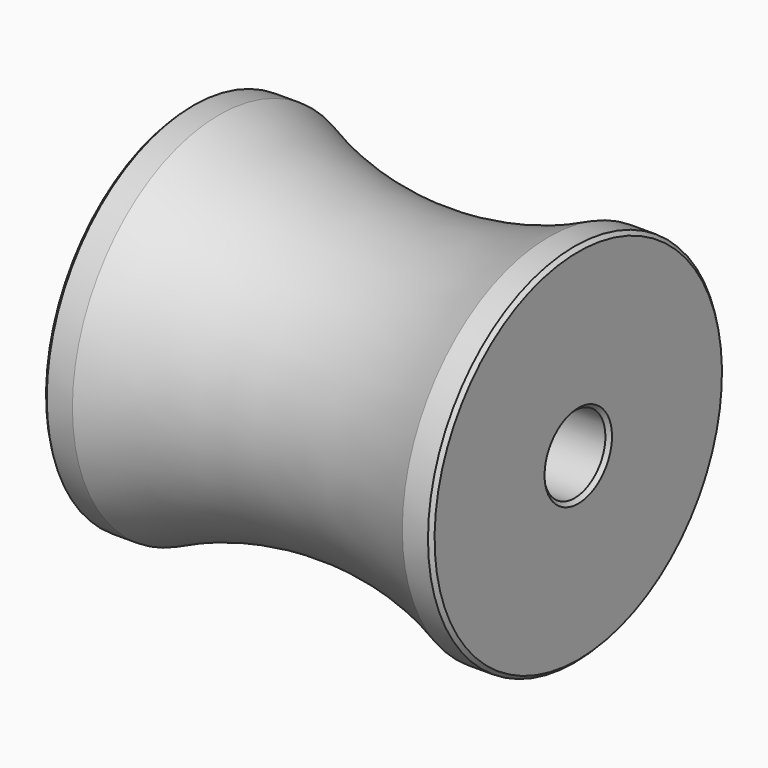
from build123d import *

# Parameters (mm, degrees)
F3_SIZE  = 0.5
F4_SIZE2 = 0.5
F4_SIZE  = 0.5


with BuildPart() as f2:
    # F0 (on Front) → F2 (revolve)
    with BuildSketch(Plane.XZ):
        with BuildLine():
            Line((26.5, -9.875), (26.5, 9.875))
            Line((26.5, 9.875), (-26.5, 9.875))
            Line((-26.5, 9.875), (-26.5, -9.875))
            Line((-26.5, -9.875), (-22.5, -9.875))
            ThreePointArc((-22.5, -9.875), (0, -4.8510921188), (22.5, -9.875))
            Line((22.5, -9.875), (26.5, -9.875))
        make_face()
    revolve(axis=Axis((0, 0, 15.125), (1, 0, 0)))

    # F3
    f3_edges = [f2.edges().sort_by_distance(p)[0] for p in [
        (26.5, 0, 40.125),
        (-26.5, 0, 40.125),
    ]]
    chamfer(f3_edges, length=F3_SIZE)

    # F4
    f4_edges = [f2.edges().sort_by_distance(p)[0] for p in [
        (26.5, 0, 20.375),
        (-26.5, 0, 20.375),
    ]]
    chamfer(f4_edges, length=F4_SIZE, length2=F4_SIZE2)


solid = f2.part
